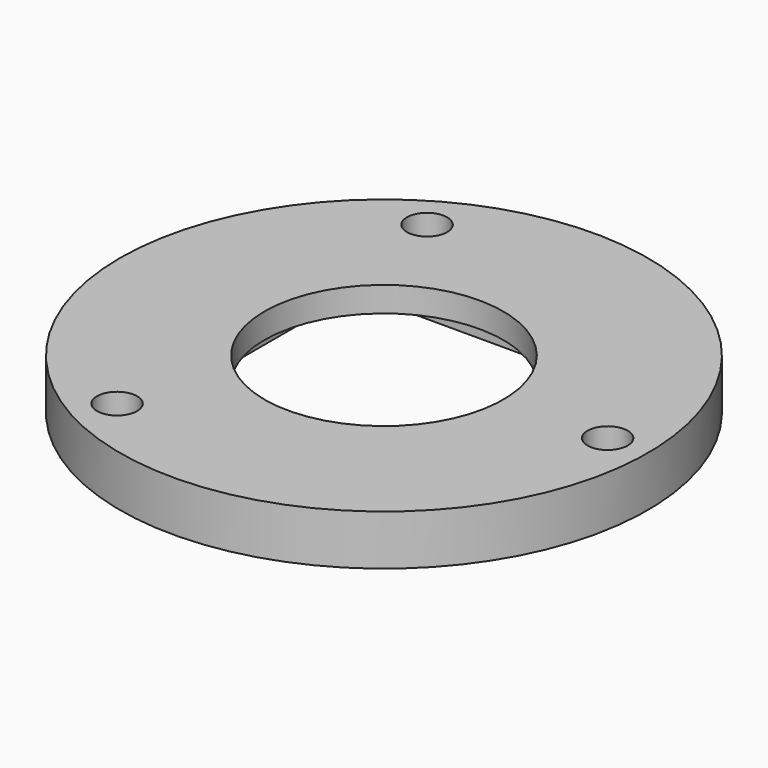
from build123d import *

# Parameters (mm, degrees)
SKETCH001_W           = 11.5
SKETCH001_H           = 4
SKETCH002_W           = 23
SKETCH002_H           = 23
POCKET_DEPTH          = 2
FILLET_R              = 3
SKETCH008_R           = 1.6
POCKET004_DEPTH       = 123.064009
POLARPATTERN001_COUNT = 3


with BuildPart() as part:
    # Sketch001 → Revolution001 (revolve)
    with BuildSketch(Plane.XZ):
        with Locations((-15.25, -2)):
            Rectangle(SKETCH001_W, SKETCH001_H)
    revolve(axis=Axis((0, 0, 0), (0, 0, 1)))

    # Sketch002 (on Face3 of Revolution001) → Pocket (cut)
    with BuildSketch(Plane(origin=(0, 0, -4), x_dir=(1, 0, 0), z_dir=(0, 0, -1))):
        Rectangle(SKETCH002_W, SKETCH002_H)
    extrude(amount=-POCKET_DEPTH, mode=Mode.SUBTRACT)

    # Fillet
    fillet_edges = [part.edges().sort_by_distance(p)[0] for p in [
        (-11.5, 11.5, -3),
        (11.5, 11.5, -3),
        (11.5, -11.5, -3),
        (-11.5, -11.5, -3),
    ]]
    fillet(fillet_edges, radius=FILLET_R)

    # Sketch008 → Pocket004 (cut, through all)
    with BuildSketch(Plane(origin=(0, 0, -4), x_dir=(1, 0, 0), z_dir=(0, 0, -1))):
        with Locations((17.8, 0)):
            Circle(SKETCH008_R)
    pocket004 = extrude(amount=-POCKET004_DEPTH, mode=Mode.SUBTRACT)

    # PolarPattern001: Pocket004 ×3 about axis
    polarpattern001_axis = Axis((0, 0, -4), (0, 0, -1))
    for i in range(1, POLARPATTERN001_COUNT):
        add(pocket004.rotate(polarpattern001_axis, i * 360 / POLARPATTERN001_COUNT), mode=Mode.SUBTRACT)


solid = part.part
